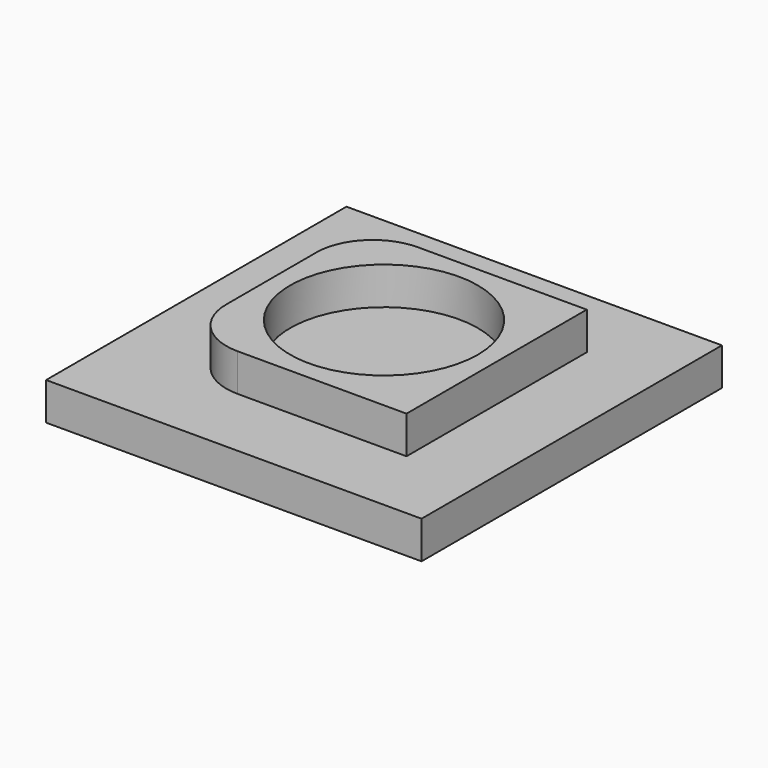
from build123d import *

# Parameters (mm, degrees)
BOX_W          = 100
BOX_H          = 100
BOX_DEPTH      = 10
CYLINDER_R     = 25
CYLINDER_DEPTH = 10
BOX001_W       = 60
BOX001_H       = 60
BOX001_DEPTH   = 10
FILLET_R       = 15


with BuildPart() as cube:
    # Box → Box (new body)
    with BuildSketch(Plane.XY):
        with Locations((50, 50)):
            Rectangle(BOX_W, BOX_H)
    extrude(amount=BOX_DEPTH)


with BuildPart() as cylinder:
    # Cylinder → Cylinder (new body)
    with BuildSketch(Plane(origin=(50, 50, 10), x_dir=(1, 0, 0), z_dir=(0, 0, 1))):
        Circle(CYLINDER_R)
    extrude(amount=CYLINDER_DEPTH)


with BuildPart() as model_fusion:
    # Box001 → Box001 (new body)
    with BuildSketch(Plane(origin=(20, 20, 10), x_dir=(1, 0, 0), z_dir=(0, 0, 1))):
        with Locations((30, 30)):
            Rectangle(BOX001_W, BOX001_H)
    extrude(amount=BOX001_DEPTH)

    # Fillet
    fillet_edges = [model_fusion.edges().sort_by_distance(p)[0] for p in [
        (20, 20, 15),
        (20, 80, 15),
    ]]
    fillet(fillet_edges, radius=FILLET_R)

    # Cut: cut Cylinder
    add(cylinder.part, mode=Mode.SUBTRACT)

    # Fusion: union Cube
    add(cube.part)


solid = model_fusion.part
